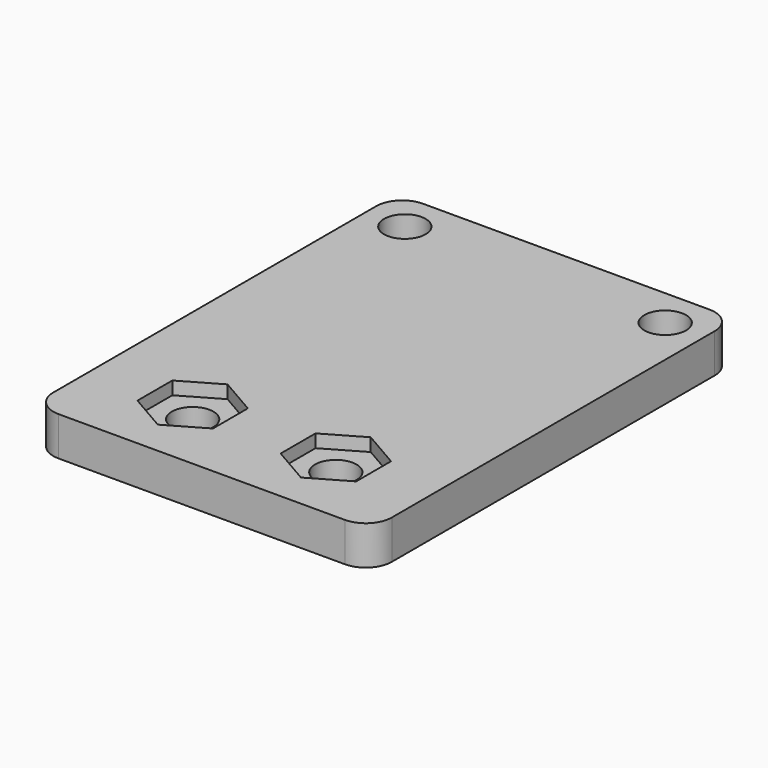
from build123d import *

# Parameters (mm, degrees)
F0_R     = 1.6
F1_DEPTH = 3
F2_DEPTH = 2


with BuildPart() as f1:
    # F0 (on Top) → F1 (new body)
    with BuildSketch(Plane.XY):
        with BuildLine():
            ThreePointArc((0, 2), (0.585786, 0.585786), (2, 0))
            Line((2, 0), (24, 0))
            ThreePointArc((24, 0), (25.414214, 0.585786), (26, 2))
            Line((26, 2), (26, 33))
            ThreePointArc((26, 33), (25.414214, 34.414214), (24, 35))
            Line((24, 35), (2, 35))
            ThreePointArc((2, 35), (0.585786, 34.414214), (0, 33))
            Line((0, 33), (0, 2))
        make_face()
        Polygon((7.5, 2.651368), (4.6, 4.325684), (4.6, 7.674316), (7.5, 9.348632), (10.4, 7.674316), (10.4, 4.325684), align=None, mode=Mode.SUBTRACT)
        Polygon((18.5, 2.651368), (15.6, 4.325684), (15.6, 7.674316), (18.5, 9.348632), (21.4, 7.674316), (21.4, 4.325684), align=None, mode=Mode.SUBTRACT)
        with Locations((3, 32)):
            Circle(F0_R, mode=Mode.SUBTRACT)
        with Locations((23, 32)):
            Circle(F0_R, mode=Mode.SUBTRACT)
    extrude(amount=F1_DEPTH)

    # F0 (on Top) → F2 (join)
    with BuildSketch(Plane.XY):
        Polygon((4.6, 7.674316), (4.6, 4.325684), (7.5, 2.651368), (10.4, 4.325684), (10.4, 7.674316), (7.5, 9.348632), align=None)
        with Locations((7.5, 6)):
            Circle(F0_R, mode=Mode.SUBTRACT)
        Polygon((15.6, 7.674316), (15.6, 4.325684), (18.5, 2.651368), (21.4, 4.325684), (21.4, 7.674316), (18.5, 9.348632), align=None)
        with Locations((18.5, 6)):
            Circle(F0_R, mode=Mode.SUBTRACT)
    extrude(amount=F2_DEPTH)


solid = f1.part
